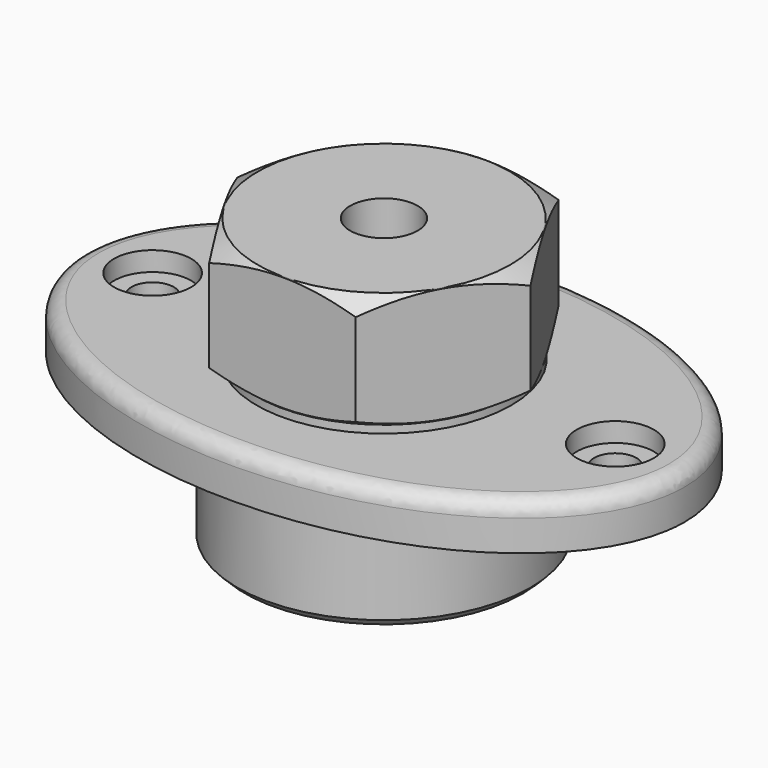
from build123d import *

# Parameters (mm, degrees)
F1_DEPTH       = 12
F2_W           = 33
F2_H           = 2
F5_DEPTH       = 30
F7_D           = 11
F7_CBORE_D     = 20
F7_CBORE_DEPTH = 5
F11_D          = 17.5
F11_DEPTH      = 12
F11_TIP        = 5.2575304165
F13_D          = 43
F13_DEPTH      = 20
F13_TIP        = 12.9185033091
F14_R          = 4
F15_SIZE2      = 2
F15_SIZE       = 2


with BuildPart() as f1:
    # F0 (on Top) → F1 (new body)
    with BuildSketch(Plane.XY):
        with BuildLine():
            add(Edge.make_bspline(
                [(78, 0), (78, 86.6025403784), (-39, 43.3012701892), (-156, 0), (-39, -43.3012701892), (78, -86.6025403784), (78, 0)],
                knots=[0, 0, 0, 2.0943951024, 2.0943951024, 4.1887902048, 4.1887902048, 6.2831853072, 6.2831853072, 6.2831853072], degree=2, weights=[1, 0.5, 1, 0.5, 1, 0.5, 1]))
        make_face()
    extrude(amount=F1_DEPTH)

    # F2 (on Front) → F3 (revolve)
    with BuildSketch(Plane.XZ):
        Polygon((0, 0), (0, -30), (38, -30), (38, -2), (33, -2), (33, 0), align=None)
        with Locations((16.5, 13)):
            Rectangle(F2_W, F2_H)
    revolve(axis=Axis((0, 0, 46.2898081845), (0, 0, 1)))

    # F4 (on face) → F5 (join)
    with BuildSketch(Plane.XY.offset(14)):
        Polygon((38, 0), (19, 32.9089653438), (-19, 32.9089653438), (-38, 0), (-19, -32.9089653438), (19, -32.9089653438), align=None)
    extrude(amount=F5_DEPTH)

    # F7 (through all)
    with Locations(Plane.XY.offset(12)):
        with Locations((-60, 0), (60, 0)):
            CounterBoreHole(F7_D / 2, F7_CBORE_D / 2, F7_CBORE_DEPTH)

    # F8 (on Front) → F9 (revolve, cut)
    with BuildSketch(Plane.XZ):
        Polygon((16, 32), (0, 32), (0, -10), (23, -10), (23, 0), (16, 0), align=None)
    revolve(axis=Axis((0, 0, 27.1871145815), (0, 0, -1)), mode=Mode.SUBTRACT)

    # F11
    with Locations(Plane.XY.offset(44)):
        with Locations((0, 0)):
            Hole(F11_D / 2, depth=F11_DEPTH)
            with Locations((0, 0, -(F11_DEPTH + F11_TIP / 2))):  # 118° drill point
                Cone(0, F11_D / 2, F11_TIP, mode=Mode.SUBTRACT)

    # F13
    with Locations(Plane(origin=(0, 0, -30), x_dir=(1, 0, 0), z_dir=(0, 0, -1))):
        with Locations((0, 0)):
            Hole(F13_D / 2, depth=F13_DEPTH)
            with Locations((0, 0, -(F13_DEPTH + F13_TIP / 2))):  # 118° drill point
                Cone(0, F13_D / 2, F13_TIP, mode=Mode.SUBTRACT)

    # F14
    f14_edges = [f1.edges().sort_by_distance(p)[0] for p in [
        (-78, 0, 12),
    ]]
    fillet(f14_edges, radius=F14_R)

    # F15
    f15_edges = [f1.edges().sort_by_distance(p)[0] for p in [
        (-38, 0, -30),
    ]]
    chamfer(f15_edges, length=F15_SIZE, length2=F15_SIZE2)

    # F16 (on Front) → F17 (revolve, cut)
    with BuildSketch(Plane.XZ):
        Polygon((38, 44), (32.75, 44), (38, 40.9689110868), align=None)
        Polygon((38, 17.0310889132), (32.75, 14), (38, 14), align=None)
    revolve(axis=Axis((0, 0, 17.0408003032), (0, 0, 1)), mode=Mode.SUBTRACT)


solid = f1.part
